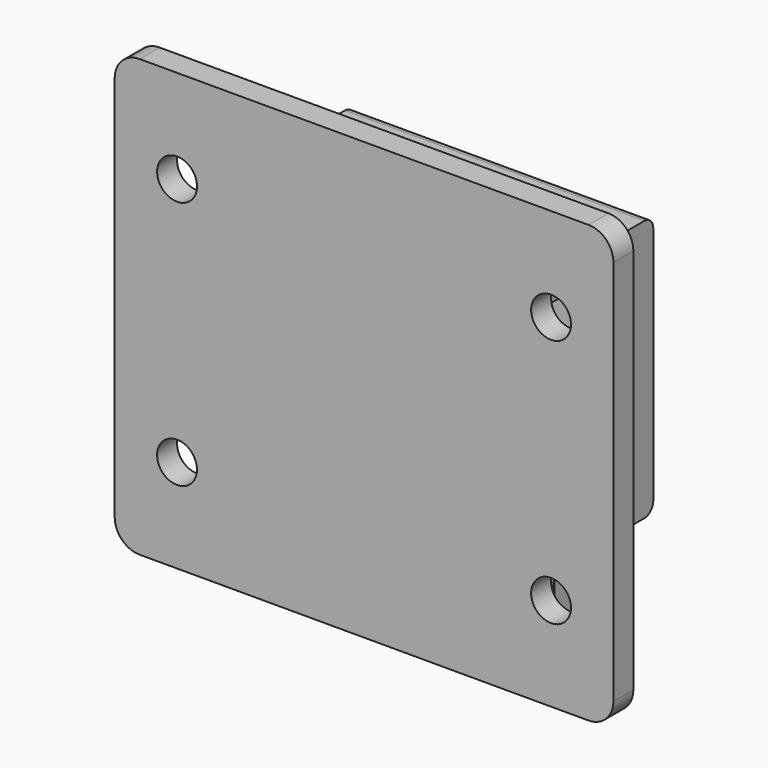
from build123d import *

# Parameters (mm, degrees)
SKETCH_W     = 40
SKETCH_H     = 35
SKETCH_R     = 1.6
PAD_DEPTH    = 2
SKETCH004_W  = 24
SKETCH004_H  = 2
PAD003_DEPTH = 2.1
SKETCH005_W  = 24
SKETCH005_H  = 4
PAD005_DEPTH = 2
FILLET_R     = 2
FILLET002_R  = 0.9
FILLET003_R  = 1
SKETCH001_W  = 24
SKETCH001_H  = 21
PAD001_DEPTH = 2
SKETCH002_W  = 24
SKETCH002_H  = 2
PAD002_DEPTH = 10
SKETCH003_W  = 24
SKETCH003_H  = 2
PAD004_DEPTH = 2
FILLET001_R  = 0.9


with BuildPart() as base:
    # Sketch → Pad (new body)
    with BuildSketch(Plane.XZ):
        Rectangle(SKETCH_W, SKETCH_H)
        with Locations((-15, 10)):
            Circle(SKETCH_R, mode=Mode.SUBTRACT)
        with Locations((15, 10)):
            Circle(SKETCH_R, mode=Mode.SUBTRACT)
        with Locations((15, -10)):
            Circle(SKETCH_R, mode=Mode.SUBTRACT)
        with Locations((-15, -10)):
            Circle(SKETCH_R, mode=Mode.SUBTRACT)
    extrude(amount=PAD_DEPTH)

    # Sketch004 (on Face9 of Pad) → Pad003 (join)
    with BuildSketch(Plane(origin=(0, 0, 0), x_dir=(1, 0, 0), z_dir=(0, 1, 0))):
        with Locations((0, 13.5)):
            Rectangle(SKETCH004_W, SKETCH004_H)
        with Locations((0, -13.5)):
            Rectangle(SKETCH004_W, SKETCH004_H)
    extrude(amount=PAD003_DEPTH)

    # Sketch005 (on Face20 of Pad003) → Pad005 (join)
    with BuildSketch(Plane(origin=(0, 2.1, 0), x_dir=(1, 0, 0), z_dir=(0, 1, 0))):
        with Locations((0, -12.5)):
            Rectangle(SKETCH005_W, SKETCH005_H)
        with Locations((0, 12.5)):
            Rectangle(SKETCH005_W, SKETCH005_H)
    extrude(amount=PAD005_DEPTH)

    # Fillet
    fillet_edges = [base.edges().sort_by_distance(p)[0] for p in [
        (-20, -1, 17.5),
        (-20, -1, -17.5),
        (20, -1, -17.5),
        (20, -1, 17.5),
    ]]
    fillet(fillet_edges, radius=FILLET_R)

    # Fillet002
    fillet002_edges = [base.edges().sort_by_distance(p)[0] for p in [
        (0, 2.1, -10.5),
        (0, 2.1, 10.5),
    ]]
    fillet(fillet002_edges, radius=FILLET002_R)

    # Fillet003
    fillet003_edges = [base.edges().sort_by_distance(p)[0] for p in [
        (0, 4.1, -14.5),
        (0, 4.1, 14.5),
    ]]
    fillet(fillet003_edges, radius=FILLET003_R)


with BuildPart() as cap:
    # Sketch001 (on DatumPlane) → Pad001 (new body)
    with BuildSketch(Plane.XZ.offset(-10)):
        Rectangle(SKETCH001_W, SKETCH001_H)
    extrude(amount=-PAD001_DEPTH)

    # Sketch002 (on Face5 of Pad001) → Pad002 (join)
    with BuildSketch(Plane.XZ.offset(-10)):
        with Locations((0, -9.5)):
            Rectangle(SKETCH002_W, SKETCH002_H)
        with Locations((0, 9.5)):
            Rectangle(SKETCH002_W, SKETCH002_H)
    extrude(amount=PAD002_DEPTH)

    # Sketch003 (on Face15 of Pad002) → Pad004 (join)
    with BuildSketch(Plane.XZ):
        with Locations((0, 11.5)):
            Rectangle(SKETCH003_W, SKETCH003_H)
        with Locations((0, -11.5)):
            Rectangle(SKETCH003_W, SKETCH003_H)
    extrude(amount=-PAD004_DEPTH)

    # Fillet001
    fillet001_edges = [cap.edges().sort_by_distance(p)[0] for p in [
        (0, 0, -8.5),
        (0, 0, 8.5),
        (0, 10, 8.5),
        (0, 10, -8.5),
        (0, 12, -10.5),
        (0, 12, 10.5),
        (0, 2, 10.5),
        (0, 2, -10.5),
        (0, 2, -12.5),
        (0, 0, -12.5),
        (0, 2, 12.5),
        (0, 0, 12.5),
    ]]
    fillet(fillet001_edges, radius=FILLET001_R)


solid = Compound([base.part, cap.part])
